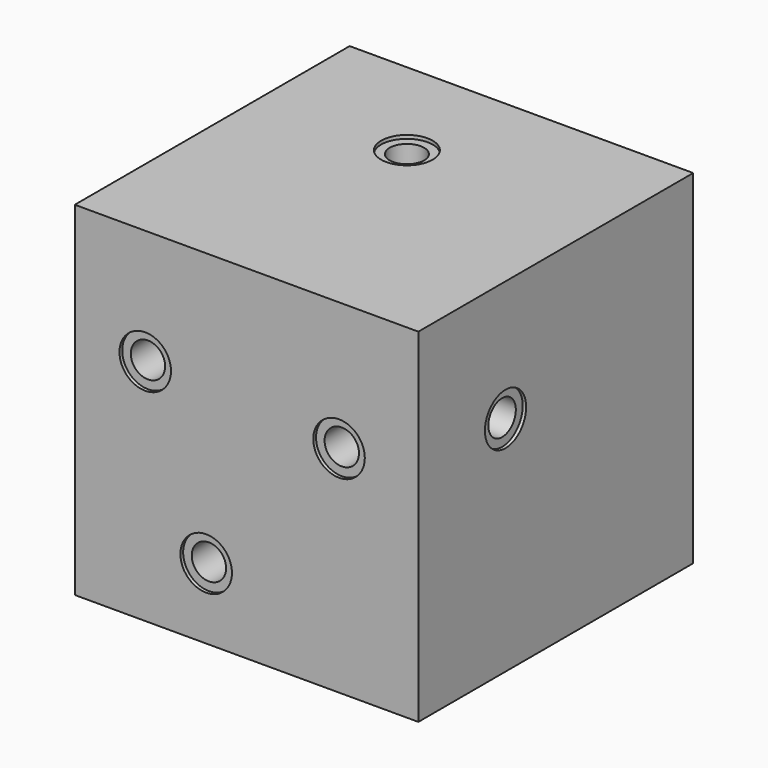
from build123d import *

# Parameters (mm, degrees)
F0_W            = 100
F0_H            = 100
F1_DEPTH        = 50
F3_D            = 10
F3_DEPTH        = 30
F3_CBORE_D      = 15
F3_CBORE_DEPTH  = 1
F3_TIP          = 3.0043030951
F5_D            = 10
F5_DEPTH        = 90
F5_CBORE_D      = 15
F5_CBORE_DEPTH  = 1
F5_TIP          = 3.0043030951
F7_D            = 10
F7_DEPTH        = 30
F7_CBORE_D      = 15
F7_CBORE_DEPTH  = 1
F7_TIP          = 3.0043030951
F9_D            = 10
F9_DEPTH        = 70
F9_CBORE_D      = 15
F9_CBORE_DEPTH  = 1
F9_TIP          = 3.0043030951
F11_D           = 10
F11_DEPTH       = 70
F11_CBORE_D     = 15
F11_CBORE_DEPTH = 1
F11_TIP         = 3.0043030951


with BuildPart() as f1:
    # F0 (on Front) → F1 (new body, symmetric)
    with BuildSketch(Plane.XZ):
        Rectangle(F0_W, F0_H)
    extrude(amount=F1_DEPTH, both=True)

    # F3
    with Locations(Plane.XZ.offset(50)):
        with Locations((-29.4981542975, 16.4846144617), (26.9160810858, 12.5460345298), (-11.7578320205, -29.4863265008)):
            CounterBoreHole(F3_D / 2, F3_CBORE_D / 2, F3_CBORE_DEPTH, depth=F3_DEPTH)
            with Locations((0, 0, -(F3_DEPTH + F3_TIP / 2))):  # 118° drill point
                Cone(0, F3_D / 2, F3_TIP, mode=Mode.SUBTRACT)

    # F5
    with Locations(Plane.YZ.offset(50)):
        with Locations((-18.2826537639, 14.7490296513)):
            CounterBoreHole(F5_D / 2, F5_CBORE_D / 2, F5_CBORE_DEPTH, depth=F5_DEPTH)
            with Locations((0, 0, -(F5_DEPTH + F5_TIP / 2))):  # 118° drill point
                Cone(0, F5_D / 2, F5_TIP, mode=Mode.SUBTRACT)

    # F7
    with Locations(Plane(origin=(0, 0, -50), x_dir=(1, 0, 0), z_dir=(0, 0, -1))):
        with Locations((-12.9053993151, 19.5117369294)):
            CounterBoreHole(F7_D / 2, F7_CBORE_D / 2, F7_CBORE_DEPTH, depth=F7_DEPTH)
            with Locations((0, 0, -(F7_DEPTH + F7_TIP / 2))):  # 118° drill point
                Cone(0, F7_D / 2, F7_TIP, mode=Mode.SUBTRACT)

    # F9
    with Locations(Plane(origin=(0, 50, 0), x_dir=(-1, 0, 0), z_dir=(0, 1, 0))):
        with Locations((3.5336192232, 12.2908577323), (12.4444905668, -16.5926571935)):
            CounterBoreHole(F9_D / 2, F9_CBORE_D / 2, F9_CBORE_DEPTH, depth=F9_DEPTH)
            with Locations((0, 0, -(F9_DEPTH + F9_TIP / 2))):  # 118° drill point
                Cone(0, F9_D / 2, F9_TIP, mode=Mode.SUBTRACT)

    # F11
    with Locations(Plane.XY.offset(50)):
        with Locations((-7.8354207799, 18.1290134788)):
            CounterBoreHole(F11_D / 2, F11_CBORE_D / 2, F11_CBORE_DEPTH, depth=F11_DEPTH)
            with Locations((0, 0, -(F11_DEPTH + F11_TIP / 2))):  # 118° drill point
                Cone(0, F11_D / 2, F11_TIP, mode=Mode.SUBTRACT)


solid = f1.part
